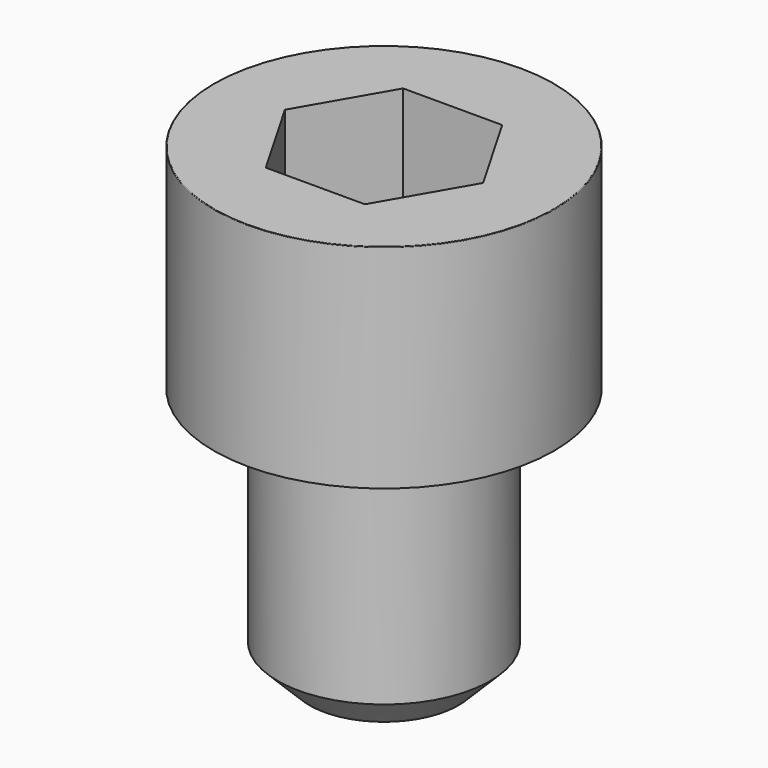
from build123d import *

# Parameters (mm, degrees)
POCKET_DEPTH = 8.07


with BuildPart() as part:
    # Sketch → Revolve (revolve)
    with BuildSketch(Plane.YZ):
        with BuildLine():
            Line((4.999, 0), (8, 0))
            Line((8, 0), (8, 9.97229))
            ThreePointArc((8, 9.97229), (7.991884, 9.991884), (7.97229, 10))
            Line((7.97229, 10), (0, 10))
            Line((0, -12), (0, 10))
            Line((3.5, -12), (0, -12))
            Line((5, -10.5), (3.5, -12))
            Line((5, -0.2), (5, -10.5))
            Line((4.999, 0), (5, -0.2))
        make_face()
    revolve(axis=Axis((0, 0, 0), (0, 0, 1)))

    # Sketch001 → Pocket (cut)
    with BuildSketch(Plane.XY.offset(10)):
        Polygon((4.659217, 0), (2.329608, 4.035), (-2.329608, 4.035), (-4.659217, 0), (-2.329608, -4.035), (2.329608, -4.035), align=None)
    extrude(amount=-POCKET_DEPTH, mode=Mode.SUBTRACT)


solid = part.part
